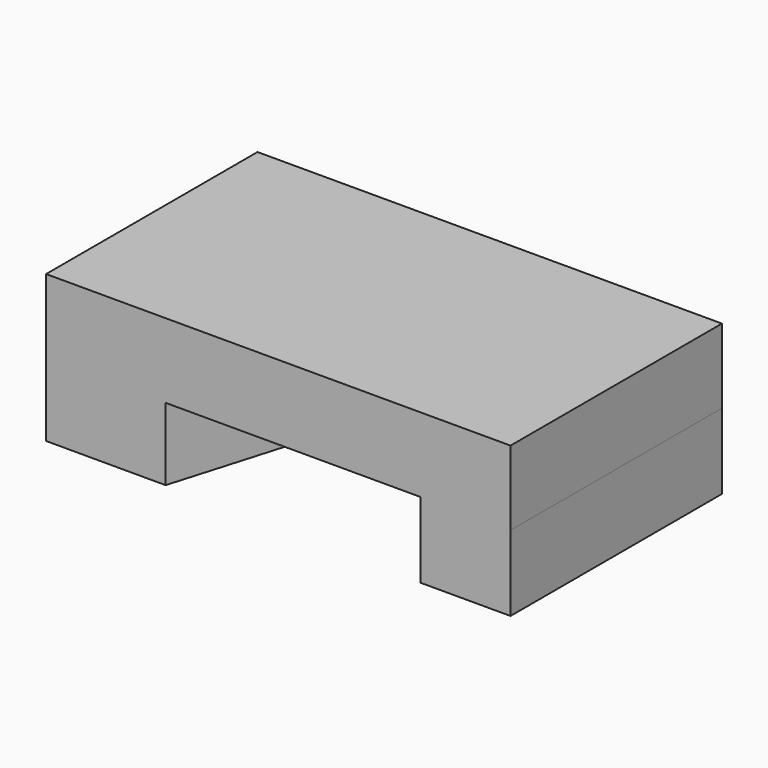
from build123d import *

# Parameters (mm, degrees)
F0_W     = 78.115409
F0_H     = 12.533441
F1_DEPTH = 44.45
F3_DEPTH = 12.192
F5_DEPTH = 12.7


with BuildPart() as f1:
    # F0 (on Front) → F1 (new body)
    with BuildSketch(Plane.XZ):
        with Locations((-19.528851, 37.600327)):
            Rectangle(F0_W, F0_H)
    extrude(amount=F1_DEPTH)

    # F2 (on face) → F3 (join)
    with BuildSketch(Plane(origin=(0, 0, 31.333607), x_dir=(1, 0, 0), z_dir=(0, 0, -1))):
        Polygon((-25.35836, 0), (-38.474753, 44.45), (-58.586556, 44.45), (-58.586556, 0), align=None)
    extrude(amount=F3_DEPTH)

    # F4 (on face) → F5 (join)
    with BuildSketch(Plane(origin=(0, 0, 31.333607), x_dir=(1, 0, 0), z_dir=(0, 0, -1))):
        Polygon((4.372132, 44.45), (-5.829508, 0), (19.528853, 0), (19.528853, 44.45), align=None)
    extrude(amount=F5_DEPTH)


solid = f1.part
